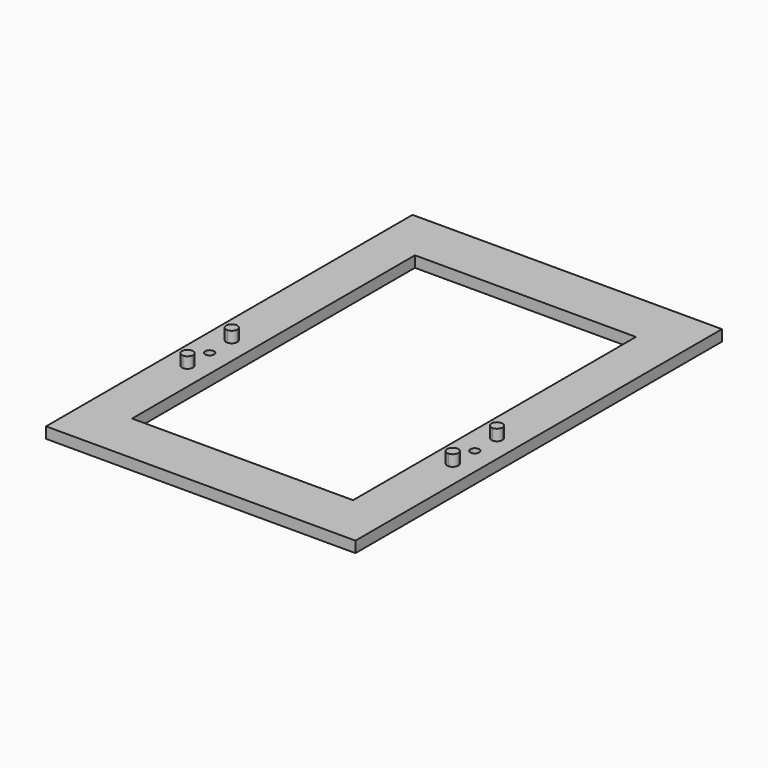
from build123d import *

# Parameters (mm, degrees)
F0_W     = 177.8
F0_H     = 263.2369608608
F1_DEPTH = 6.35
F2_W     = 63.5
F2_H     = 101.6
F3_DEPTH = 25
F5_D     = 5.1054
F6_DEPTH = 6.35


with BuildPart() as f1:
    # F0 (on Top) → F1 (new body)
    with BuildSketch(Plane.XY):
        with Locations((88.9, 131.6184804304)):
            Rectangle(F0_W, F0_H)
    extrude(amount=F1_DEPTH)

    # F2 (on face) → F3 (cut)
    with BuildSketch(Plane.XY.offset(6.35)):
        with Locations((57.15, 182.4184804304)):
            Rectangle(F2_W, F2_H)
        with Locations((57.15, 80.8184804304)):
            Rectangle(F2_W, F2_H)
        with Locations((120.65, 182.4184804304)):
            Rectangle(F2_W, F2_H)
        with Locations((120.65, 80.8184804304)):
            Rectangle(F2_W, F2_H)
    extrude(amount=-F3_DEPTH, mode=Mode.SUBTRACT)

    # F5 (through all)
    with Locations(Plane.XY.offset(6.35)):
        with Locations((12.7, 101.6184804304), (165.1, 101.6184804304)):
            Hole(F5_D / 2)

    # F4 (on face) → F6 (join)
    with BuildSketch(Plane.XY.offset(6.35)):
        with BuildLine():
            ThreePointArc((168.275, 117.4934804304), (167.3450640303, 119.7385444607), (165.1, 120.6684804304))
            Line((165.1, 120.6684804304), (165.1, 114.3184804304))
            ThreePointArc((165.1, 114.3184804304), (167.3450640303, 115.2484164001), (168.275, 117.4934804304))
        make_face()
        with BuildLine():
            Line((165.1, 114.3184804304), (165.1, 120.6684804304))
            ThreePointArc((165.1, 120.6684804304), (161.925, 117.4934804304), (165.1, 114.3184804304))
        make_face()
        with BuildLine():
            ThreePointArc((168.275, 85.7434804304), (167.3450640303, 87.9885444607), (165.1, 88.9184804304))
            Line((165.1, 88.9184804304), (165.1, 82.5684804304))
            ThreePointArc((165.1, 82.5684804304), (167.3450640303, 83.4984164001), (168.275, 85.7434804304))
        make_face()
        with BuildLine():
            Line((165.1, 82.5684804304), (165.1, 88.9184804304))
            ThreePointArc((165.1, 88.9184804304), (161.925, 85.7434804304), (165.1, 82.5684804304))
        make_face()
        with BuildLine():
            ThreePointArc((15.875, 85.7434804304), (14.9450640303, 87.9885444607), (12.7, 88.9184804304))
            Line((12.7, 88.9184804304), (12.7, 82.5684804304))
            ThreePointArc((12.7, 82.5684804304), (14.9450640303, 83.4984164001), (15.875, 85.7434804304))
        make_face()
        with BuildLine():
            Line((12.7, 82.5684804304), (12.7, 88.9184804304))
            ThreePointArc((12.7, 88.9184804304), (9.525, 85.7434804304), (12.7, 82.5684804304))
        make_face()
        with BuildLine():
            ThreePointArc((15.875, 117.4934804304), (14.9450640303, 119.7385444607), (12.7, 120.6684804304))
            Line((12.7, 120.6684804304), (12.7, 114.3184804304))
            ThreePointArc((12.7, 114.3184804304), (14.9450640303, 115.2484164001), (15.875, 117.4934804304))
        make_face()
        with BuildLine():
            Line((12.7, 114.3184804304), (12.7, 120.6684804304))
            ThreePointArc((12.7, 120.6684804304), (9.525, 117.4934804304), (12.7, 114.3184804304))
        make_face()
    extrude(amount=F6_DEPTH)


solid = f1.part
